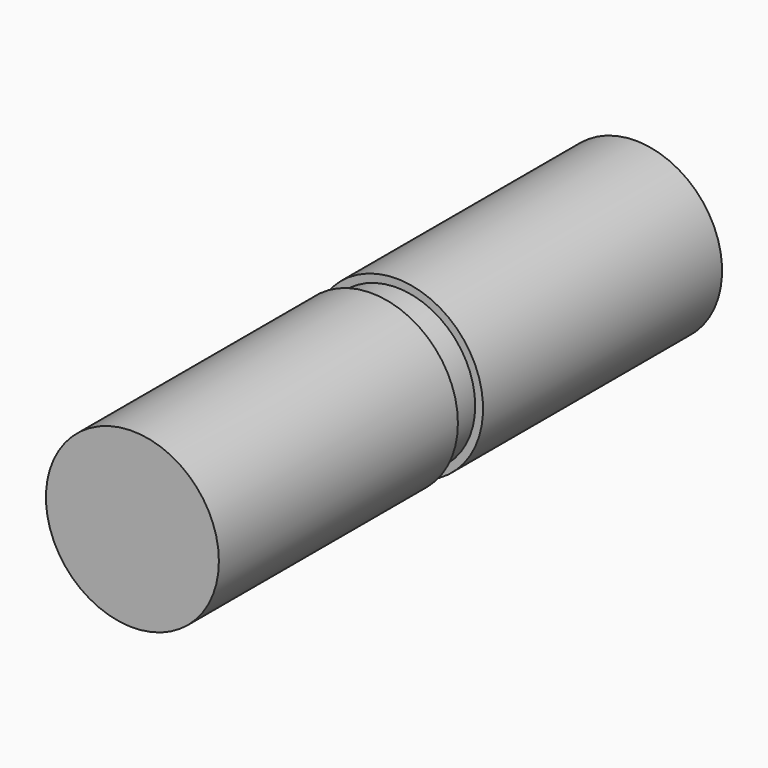
from build123d import *

# Parameters (mm, degrees)
F0_R     = 2.5
F1_DEPTH = 1
F2_R     = 2.75
F3_DEPTH = 9.5
F4_R     = 2.75
F5_DEPTH = 9.5


with BuildPart() as f1:
    # F0 (on Front) → F1 (new body)
    with BuildSketch(Plane.XZ):
        Circle(F0_R)
    extrude(amount=F1_DEPTH)

    # F2 (on face) → F3 (join)
    with BuildSketch(Plane(origin=(0, 0, 0), x_dir=(-1, 0, 0), z_dir=(0, 1, 0))):
        Circle(F2_R)
    extrude(amount=F3_DEPTH)

    # F4 (on face) → F5 (join)
    with BuildSketch(Plane.XZ.offset(1)):
        Circle(F4_R)
    extrude(amount=F5_DEPTH)


solid = f1.part
